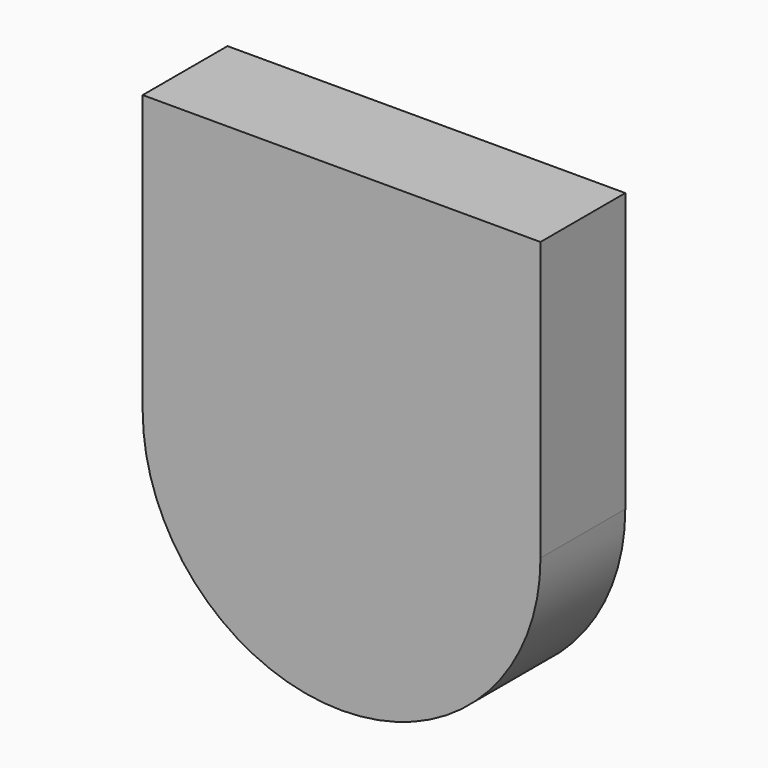
from build123d import *

# Parameters (mm, degrees)
F1_DEPTH = 12.7


with BuildPart() as f1:
    # F0 (on Front) → F1 (new body)
    with BuildSketch(Plane.XZ):
        with BuildLine():
            Line((0, 0), (-23.8252, 0))
            Line((-23.8252, 0), (-23.8252, -33.3248))
            ThreePointArc((-23.8252, -33.3248), (-16.84696, -50.17176), (0, -57.15))
            ThreePointArc((0, -57.15), (16.84696, -50.17176), (23.8252, -33.3248))
            Line((23.8252, -33.3248), (23.8252, -27.328906))
            Line((23.8252, -27.328906), (23.8252, 0))
            Line((23.8252, 0), (0, 0))
        make_face()
    extrude(amount=-F1_DEPTH)


solid = f1.part
